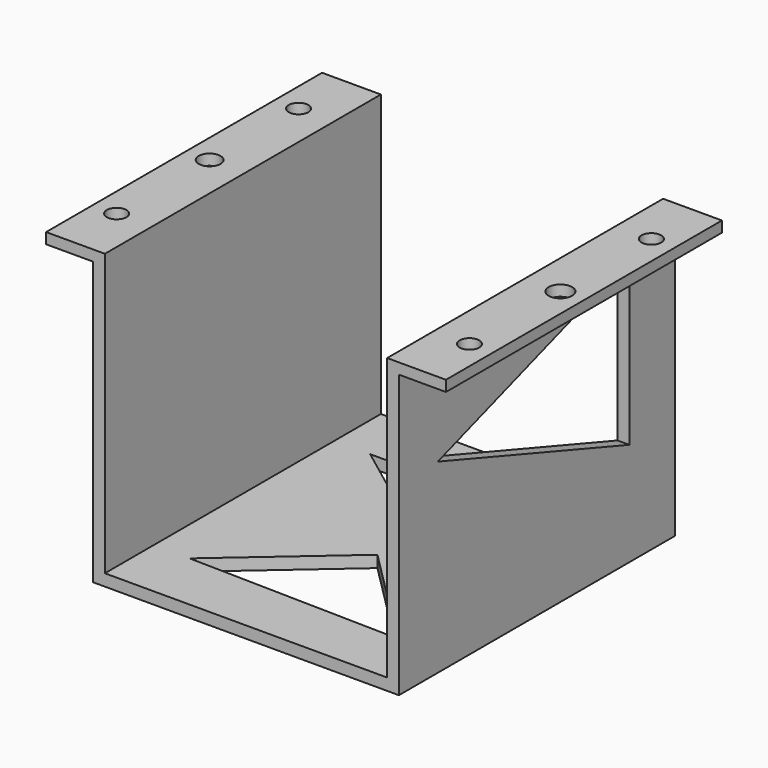
from build123d import *

# Parameters (mm, degrees)
F1_DEPTH = 44
F2_R     = 2.5
F2_R_2   = 2.779494
F2_R_3   = 3.003014
F3_DEPTH = 2.748387
F5_DEPTH = 4
F7_DEPTH = 4


with BuildPart() as f1:
    # F0 (on Front) → F1 (new body, symmetric)
    with BuildSketch(Plane.XZ):
        Polygon((33.024074, -6.624926), (-2.974825, -6.624926), (-2.974825, -9.624926), (36.025175, -9.624926), (36.025175, 62.375074), (48.024074, 62.375074), (48.024074, 65.123461), (33.024074, 65.123461), align=None)
        Polygon((-2.974825, -9.624926), (-2.974825, -6.624926), (-38.973723, -6.624926), (-38.973723, 65.123461), (-53.973723, 65.123461), (-53.973723, 62.375074), (-41.974825, 62.375074), (-41.974825, -9.624926), align=None)
    extrude(amount=F1_DEPTH, both=True)

    # F2 (on face) → F3 (cut, through all)
    with BuildSketch(Plane.XY.offset(65.123461)):
        with Locations((42.024624, -29)):
            Circle(F2_R)
        with Locations((42.024624, 29)):
            Circle(F2_R)
        with Locations((-47.974274, 29)):
            Circle(F2_R)
        with Locations((-47.974274, -29)):
            Circle(F2_R)
        with Locations((-47.974274, 0.645779)):
            Circle(F2_R_2)
        with Locations((42.024624, 0)):
            Circle(F2_R_3)
    extrude(amount=-F3_DEPTH, mode=Mode.SUBTRACT)

    # F4 (on face) → F5 (cut)
    with BuildSketch(Plane(origin=(0, 0, -9.624926), x_dir=(1, 0, 0), z_dir=(0, 0, -1))):
        Polygon((-1.577392, 3.848274), (24.135478, 29.56114), (-29.805643, 28.443189), align=None)
        Polygon((24.135478, -29.131273), (-1.577392, -7.890209), (-29.805643, -29.131273), align=None)
    extrude(amount=-F5_DEPTH, mode=Mode.SUBTRACT)

    # F6 (on face) → F7 (cut)
    with BuildSketch(Plane.YZ.offset(36.025175)):
        Polygon((29.453758, 16.755113), (29.453758, 58.549069), (-31.596411, 37.797935), align=None)
    extrude(amount=-F7_DEPTH, mode=Mode.SUBTRACT)


solid = f1.part
